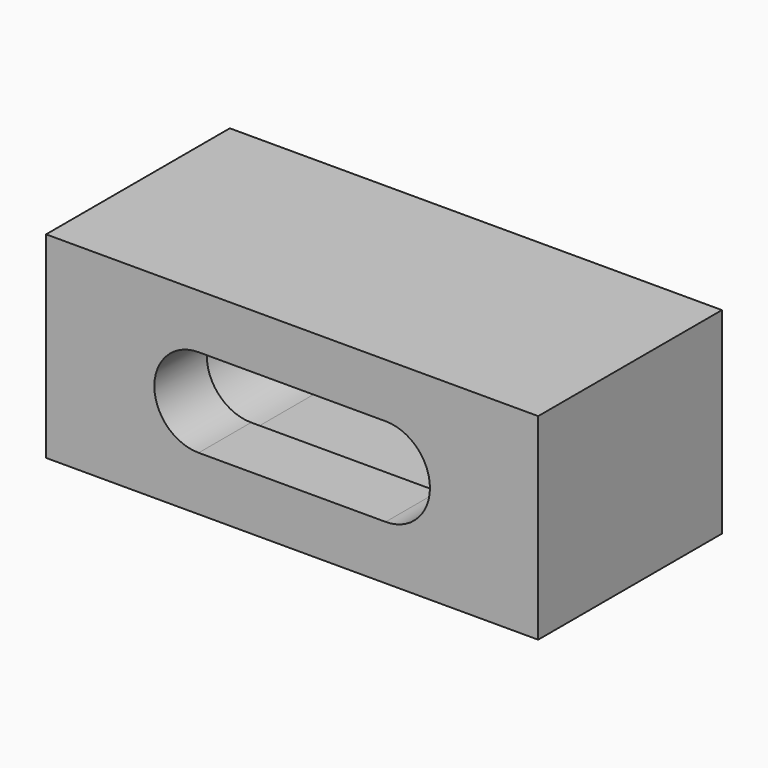
from build123d import *

# Parameters (mm, degrees)
SKETCH002_W     = 15
SKETCH002_H     = 6
PAD_DEPTH       = 2
PAD_DEPTH_BACK  = 5
POCKET_DEPTH    = 5.001
POCKET001_DEPTH = 2.001


with BuildPart() as part:
    # Sketch002 → Pad (new body, two sides)
    with BuildSketch(Plane.XZ) as pad_sk:
        Rectangle(SKETCH002_W, SKETCH002_H)
    extrude(amount=PAD_DEPTH)
    extrude(pad_sk.sketch, amount=-PAD_DEPTH_BACK)

    # Sketch → Pocket (cut, through all)
    with BuildSketch(Plane.XZ):
        with BuildLine():
            ThreePointArc((-2.95, 1.65), (-4.6, 0), (-2.95, -1.65))
            Line((-2.95, -1.65), (2.95, -1.65))
            ThreePointArc((2.95, -1.65), (4.6, 0), (2.95, 1.65))
            Line((-2.95, 1.65), (2.95, 1.65))
        make_face()
    extrude(amount=-POCKET_DEPTH, mode=Mode.SUBTRACT)

    # Sketch001 → Pocket001 (cut, through all)
    with BuildSketch(Plane.XZ):
        with BuildLine():
            ThreePointArc((-2.85, 1.35), (-4.2, 0), (-2.85, -1.35))
            Line((-2.85, -1.35), (2.85, -1.35))
            ThreePointArc((2.85, -1.35), (4.2, 0), (2.85, 1.35))
            Line((-2.85, 1.35), (2.85, 1.35))
        make_face()
    extrude(amount=POCKET001_DEPTH, mode=Mode.SUBTRACT)


solid = part.part
